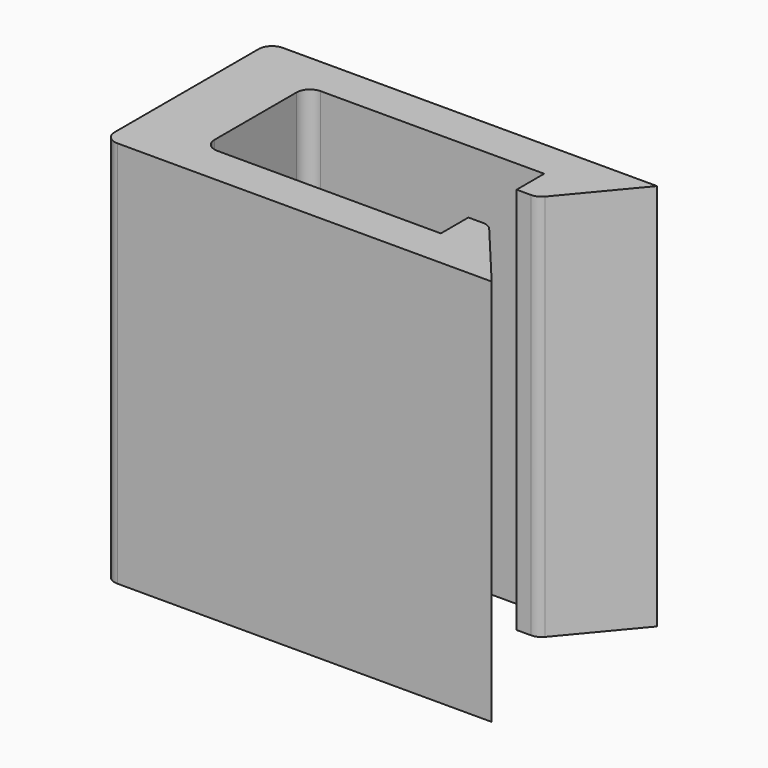
from build123d import *

# Parameters (mm, degrees)
F1_DEPTH = 9


with BuildPart() as f1:
    # F0 (on Top) → F1 (new body)
    with BuildSketch(Plane.XY):
        with BuildLine():
            Line((-4.188961, -2.4), (4.5, -2.4))
            Line((4.5, -2.4), (3.172631, -0.811589))
            ThreePointArc((3.172631, -0.811589), (3.065694, -0.729275), (2.933958, -0.7))
            Line((2.933958, -0.7), (2.6, -0.7))
            Line((2.6, -0.7), (2.6, -1.5))
            Line((2.6, -1.5), (-2.588961, -1.5))
            ThreePointArc((-2.588961, -1.5), (-2.808899, -1.408899), (-2.9, -1.188961))
            Line((-2.9, -1.188961), (-2.9, 1.188961))
            ThreePointArc((-2.9, 1.188961), (-2.808899, 1.408899), (-2.588961, 1.5))
            Line((-2.588961, 1.5), (2.6, 1.5))
            Line((2.6, 1.5), (2.6, 0.7))
            Line((2.6, 0.7), (2.933958, 0.7))
            ThreePointArc((2.933958, 0.7), (3.065694, 0.729275), (3.172631, 0.811589))
            Line((3.172631, 0.811589), (4.5, 2.4))
            Line((4.5, 2.4), (-4.188961, 2.4))
            ThreePointArc((-4.188961, 2.4), (-4.408899, 2.308899), (-4.5, 2.088961))
            Line((-4.5, 2.088961), (-4.5, -2.088961))
            ThreePointArc((-4.5, -2.088961), (-4.408899, -2.308899), (-4.188961, -2.4))
        make_face()
    extrude(amount=F1_DEPTH)


solid = f1.part
